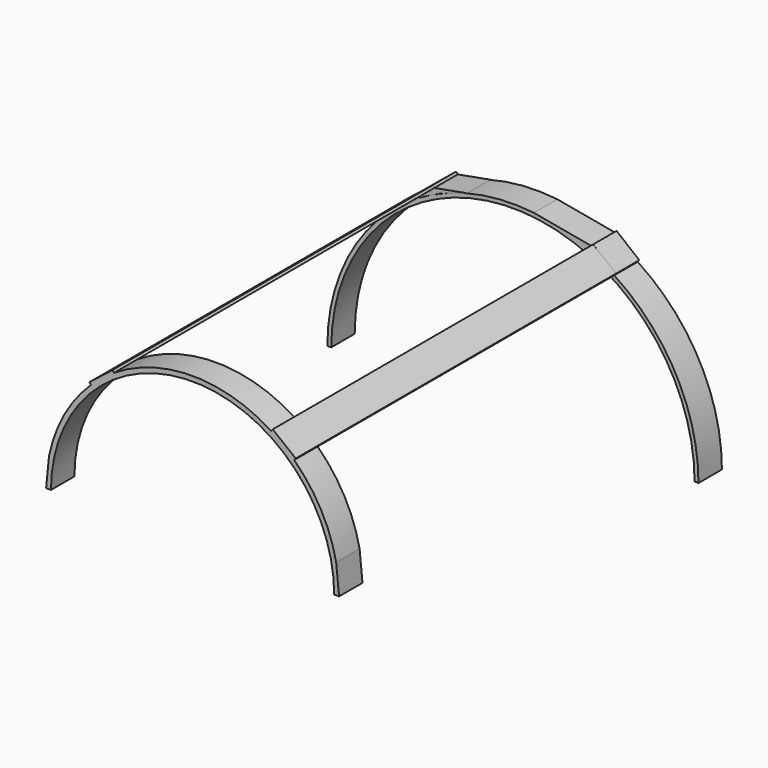
from build123d import *

# Parameters (mm, degrees)
F1_DEPTH  = 38.1
F2_W      = 38.1
F2_H      = 38.1
F2_H_2    = 482.6
F3_DEPTH  = 3.175
F4_W      = 38.1
F4_H      = 38.1
F4_H_2    = 482.6
F5_DEPTH  = 3.175
F8_DEPTH  = 38.1
F9_DEPTH  = 38.1
F10_W     = 37.9836630458
F10_H     = 38.1
F11_DEPTH = 3.302
F12_DEPTH = 3.302


with BuildPart() as f1:
    # F0 (on Front) → F1 (new body)
    with BuildSketch(Plane.XZ):
        with BuildLine():
            Line((190.5, 0), (186.69, 37.9090213538))
            ThreePointArc((186.69, 37.9090213538), (166.9901958546, 91.6761936843), (132.2020589855, 137.16))
            Line((132.2020589855, 137.16), (102.2635224311, 160.72467757))
            ThreePointArc((102.2635224311, 160.72467757), (0, 190.5), (-102.2635224311, 160.72467757))
            Line((-102.2635224311, 160.72467757), (-132.2020589855, 137.16))
            ThreePointArc((-132.2020589855, 137.16), (-166.9901958546, 91.6761936843), (-186.69, 37.9090213538))
            Line((-186.69, 37.9090213538), (-190.5, 0))
            Line((-190.5, 0), (-184.15, 0))
            ThreePointArc((-184.15, 0), (0, 184.15), (184.15, 0))
            Line((184.15, 0), (190.5, 0))
        make_face()
    extrude(amount=F1_DEPTH)

    # F2 (on face) → F3 (join)
    with BuildSketch(Plane(origin=(-117.2327907083, 0, 148.942338785), x_dir=(0.785788361, 0, 0.6184954743), z_dir=(-0.6184954743, 0, 0.785788361))):
        with Locations((0, -19.05)):
            Rectangle(F2_W, F2_H)
        with Locations((0, 241.3)):
            Rectangle(F2_W, F2_H_2)
    extrude(amount=F3_DEPTH)

    # F4 (on face) → F5 (join)
    with BuildSketch(Plane(origin=(117.2327907083, 0, 148.942338785), x_dir=(0.785788361, 0, -0.6184954743), z_dir=(0.6184954743, 0, 0.785788361))):
        with Locations((0, -19.05)):
            Rectangle(F4_W, F4_H)
        with Locations((0, 241.3)):
            Rectangle(F4_W, F4_H_2)
    extrude(amount=F5_DEPTH)

    # F7 (on face) → F8 (join)
    with BuildSketch(Plane(origin=(0, 482.6, 0), x_dir=(-1, 0, 0), z_dir=(0, 1, 0))):
        with BuildLine():
            Line((130.004232963, 138.0423993869), (102.2635224311, 160.72467757))
            Line((102.2635224311, 160.72467757), (59.6745645386, 168.5625927845))
            ThreePointArc((59.6745645386, 168.5625927845), (96.0592635131, 156.1135098671), (130.004232963, 138.0423993869))
        make_face()
    extrude(amount=F8_DEPTH)



with BuildPart() as f9:
    # F6 (on face) → F9 (new body)
    with BuildSketch(Plane(origin=(0, 482.6, 0), x_dir=(-1, 0, 0), z_dir=(0, 1, 0))):
        with BuildLine():
            Line((236.22, -65.3515389739), (241.3, -65.3515389739))
            ThreePointArc((241.3, -65.3515389739), (160.6830293096, 114.6669436658), (-27.3005312217, 174.3991043934))
            Line((-27.3005312217, 174.3991043934), (-59.1095722207, 168.5966357826))
            ThreePointArc((-59.1095722207, 168.5966357826), (-96.7518090552, 155.7022496038), (-131.7632866386, 136.7972337016))
            ThreePointArc((-131.7632866386, 136.7972337016), (-212.1558048533, 49.607603625), (-241.3, -65.3515389739))
            Line((-241.3, -65.3515389739), (-236.22, -65.3515389739))
            ThreePointArc((-236.22, -65.3515389739), (0, 170.8684610261), (236.22, -65.3515389739))
        make_face()
        with BuildLine():
            ThreePointArc((-131.7632866386, 136.7972337016), (-96.7518090552, 155.7022496038), (-59.1095722207, 168.5966357826))
            Line((-59.1095722207, 168.5966357826), (-102.2635224311, 160.72467757))
            Line((-102.2635224311, 160.72467757), (-131.7632866386, 136.7972337016))
        make_face()
    extrude(amount=F9_DEPTH)


with BuildPart() as f1_1:
    add(f1.part)

    add(f9.part)  # F11 merges F9
    # F10 (on face) → F11 (join)
    with BuildSketch(Plane(origin=(119.2135098748, 0, 146.9764363882), x_dir=(0.7766434789, 0, -0.6299403994), z_dir=(0.6299403994, 0, 0.7766434789))):
        with Locations((-2.8328382326, 501.65)):
            Rectangle(F10_W, F10_H)
    extrude(amount=F11_DEPTH)

    # F12 (add): a face of the model
    f12_faces = [f1_1.faces().sort_by_distance(p)[0] for p in [
        (-116.133877697, 501.65, 149.3835384785),
    ]]
    extrude(f12_faces, amount=F12_DEPTH)


solid = f1_1.part
